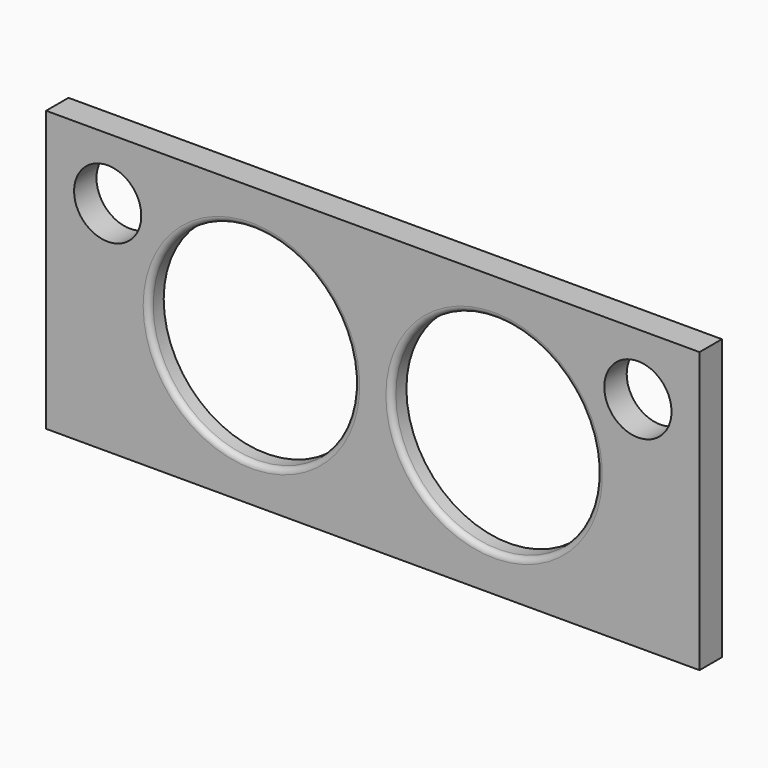
from build123d import *

# Parameters (mm, degrees)
F0_W     = 350
F0_H     = 150
F0_R     = 55
F0_R_2   = 18
F1_DEPTH = 15
F2_R     = 3
F3_ANGLE = 180
F4_R     = 64.95
F5_DEPTH = 5


with BuildPart() as f1:
    # F0 (on Front) → F1 (new body)
    with BuildSketch(Plane.XZ):
        with Locations((2.768559, 0)):
            Rectangle(F0_W, F0_H)
        with Locations((-62.231441, 0)):
            Circle(F0_R, mode=Mode.SUBTRACT)
        with Locations((-139.231441, 42)):
            Circle(F0_R_2, mode=Mode.SUBTRACT)
        with Locations((67.768559, 0)):
            Circle(F0_R, mode=Mode.SUBTRACT)
        with Locations((144.768559, 42)):
            Circle(F0_R_2, mode=Mode.SUBTRACT)
    extrude(amount=F1_DEPTH)

    # F2
    f2_edges = [f1.edges().sort_by_distance(p)[0] for p in [
        (-117.231441, 0, 0),
        (12.768559, 0, 0),
    ]]
    fillet(f2_edges, radius=F2_R)


with BuildPart() as f1_1:
    # F3: moved
    add(f1.part.rotate(Axis((-172.231441, -15, 0), (0, 0, 1)), F3_ANGLE))

    # F4 (on face) → F5 (cut)
    with BuildSketch(Plane(origin=(0, -15, 0), x_dir=(-1, 0, 0), z_dir=(0, 1, 0))):
        with Locations((282.231441, 0)):
            Circle(F4_R)
        with Locations((412.231441, 0)):
            Circle(F4_R)
    extrude(amount=-F5_DEPTH, mode=Mode.SUBTRACT)


solid = f1_1.part
